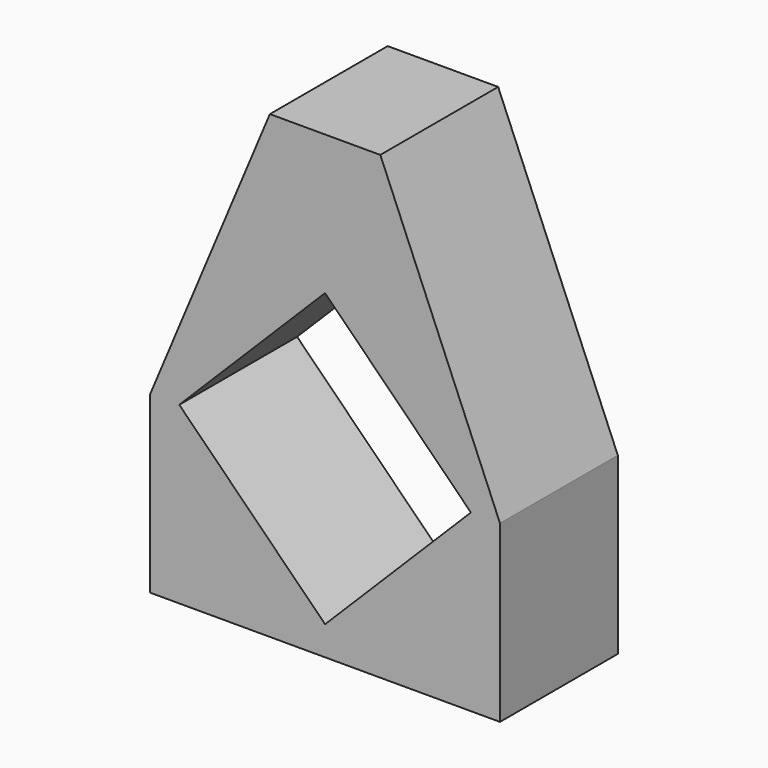
from build123d import *

# Parameters (mm, degrees)
F0_W     = 47.5
F0_H     = 47.5
F1_DEPTH = 20
F2_DEPTH = 15
F4_DEPTH = 20.001


with BuildPart() as f1:
    # F0 (on Front) → F1 (new body)
    with BuildSketch(Plane.XZ):
        Rectangle(F0_W, F0_H)
        Polygon((0, 19.7989898732), (19.7989898732, 19.7989898732), (19.7989898732, 0), (19.7989898732, -19.7989898732), (0, -19.7989898732), (-19.7989898732, -19.7989898732), (-19.7989898732, 0), (-19.7989898732, 19.7989898732), align=None, mode=Mode.SUBTRACT)
        Polygon((-19.7989898732, 0), (0, 19.7989898732), (-19.7989898732, 19.7989898732), align=None)
        Polygon((0, -19.7989898732), (-19.7989898732, 0), (-19.7989898732, -19.7989898732), align=None)
        Polygon((19.7989898732, -19.7989898732), (19.7989898732, 0), (0, -19.7989898732), align=None)
        Polygon((19.7989898732, 0), (19.7989898732, 19.7989898732), (0, 19.7989898732), align=None)
    extrude(amount=F1_DEPTH)

    # F2 (add): a face of the model
    f2_faces = [f1.faces().sort_by_distance(p)[0] for p in [
        (0, -10, 23.75),
    ]]
    extrude(f2_faces, amount=F2_DEPTH)

    # F3 (on face) → F4 (cut, through all)
    with BuildSketch(Plane.XZ.offset(20)):
        Polygon((-23.75, 38.75), (-23.75, 0), (-7.5, 38.75), align=None)
        Polygon((23.75, 38.75), (7.5, 38.75), (23.75, 0), align=None)
    extrude(amount=-F4_DEPTH, mode=Mode.SUBTRACT)


solid = f1.part
